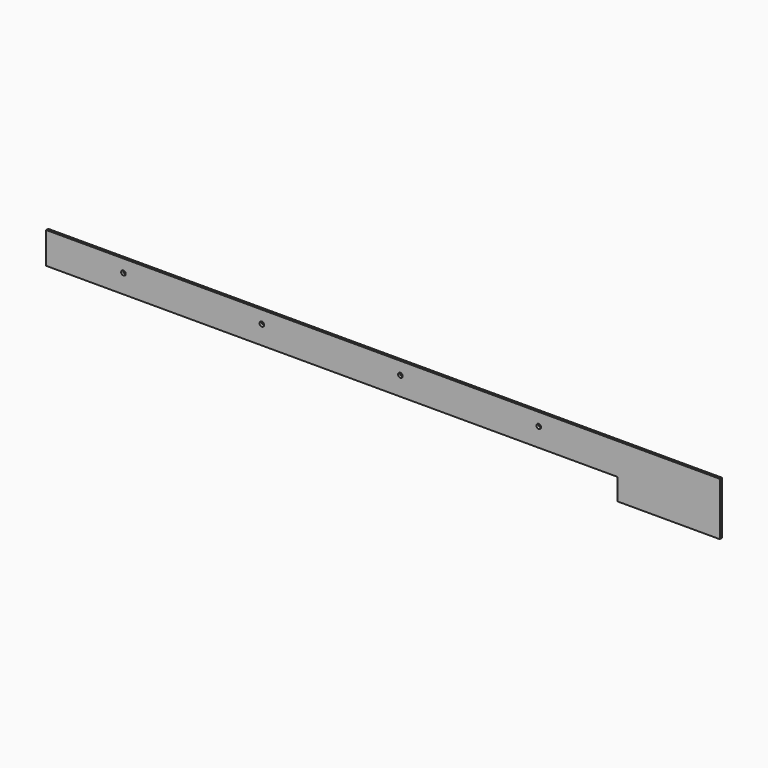
from build123d import *

# Parameters (mm, degrees)
F0_W     = 14
F0_H     = 288
F1_DEPTH = 1825
F2_W     = 3095
F2_H     = 117
F3_DEPTH = 25
F4_R     = 12.5
F5_DEPTH = 25


with BuildPart() as f1:
    # F0 (on Right) → F1 (new body, symmetric)
    with BuildSketch(Plane.YZ):
        Rectangle(F0_W, F0_H)
    extrude(amount=F1_DEPTH, both=True)

    # F2 (on face) → F3 (cut)
    with BuildSketch(Plane.XZ.offset(7)):
        with Locations((-277.5, -85.5)):
            Rectangle(F2_W, F2_H)
    extrude(amount=-F3_DEPTH, mode=Mode.SUBTRACT)

    # F4 (on face) → F5 (cut)
    with BuildSketch(Plane.XZ.offset(7)):
        with Locations((-1406, 75)):
            Circle(F4_R)
        with Locations((-656, 75)):
            Circle(F4_R)
        with Locations((94, 75)):
            Circle(F4_R)
        with Locations((844, 75)):
            Circle(F4_R)
    extrude(amount=-F5_DEPTH, mode=Mode.SUBTRACT)


solid = f1.part
